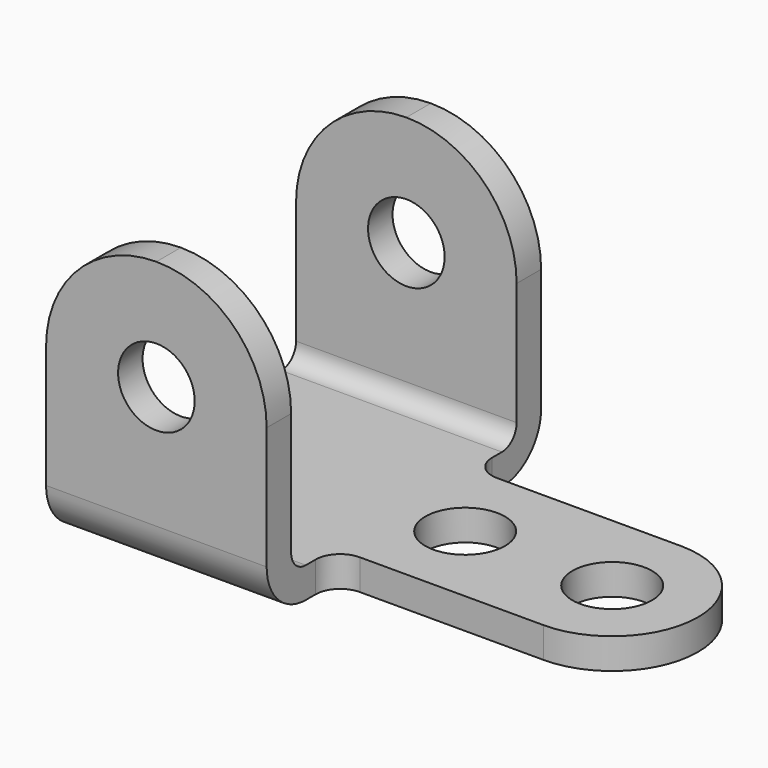
from build123d import *

# Parameters (mm, degrees)
F1_DEPTH = 57.15
F2_R     = 10.3251
F3_DEPTH = 7.9375
F4_R     = 9.92251
F5_DEPTH = 88.9


with BuildPart() as f1:
    # F0 (on Right) → F1 (new body)
    with BuildSketch(Plane.YZ):
        with BuildLine():
            Line((-31.75, 0), (0, 0))
            Line((0, 0), (31.75, 0))
            ThreePointArc((31.75, 0), (40.730256, 3.719744), (44.45, 12.7))
            Line((44.45, 12.7), (44.45, 73.025))
            Line((44.45, 73.025), (36.5125, 73.025))
            Line((36.5125, 73.025), (36.5125, 12.7))
            ThreePointArc((36.5125, 12.7), (35.117596, 9.332404), (31.75, 7.9375))
            Line((31.75, 7.9375), (-31.75, 7.9375))
            ThreePointArc((-31.75, 7.9375), (-35.117596, 9.332404), (-36.5125, 12.7))
            Line((-36.5125, 12.7), (-36.5125, 73.025))
            Line((-36.5125, 73.025), (-44.45, 73.025))
            Line((-44.45, 73.025), (-44.45, 12.7))
            ThreePointArc((-44.45, 12.7), (-40.730256, 3.719744), (-31.75, 0))
        make_face()
    extrude(amount=F1_DEPTH)

    # F2 (on face) → F3 (join)
    with BuildSketch(Plane.XY.offset(7.9375)):
        with BuildLine():
            ThreePointArc((63.5, 22.225), (59.009872, 24.084872), (57.15, 28.575))
            Line((57.15, 28.575), (57.15, -28.575))
            ThreePointArc((57.15, -28.575), (59.009872, -24.084872), (63.5, -22.225))
            Line((63.5, -22.225), (111.125, -22.225))
            ThreePointArc((111.125, -22.225), (133.35, 0), (111.125, 22.225))
            Line((111.125, 22.225), (63.5, 22.225))
        make_face()
        with Locations((73.025, 0)):
            Circle(F2_R, mode=Mode.SUBTRACT)
        with Locations((111.125, 0)):
            Circle(F2_R, mode=Mode.SUBTRACT)
    extrude(amount=-F3_DEPTH)

    # F4 (on face) → F5 (cut)
    with BuildSketch(Plane.XZ.offset(44.45)):
        with Locations((28.575, 44.45)):
            Circle(F4_R)
        with BuildLine():
            Line((28.575, 73.025), (0, 73.025))
            Line((0, 73.025), (0, 44.45))
            ThreePointArc((0, 44.45), (8.369424, 64.655576), (28.575, 73.025))
        make_face()
        with BuildLine():
            Line((57.15, 73.025), (28.575, 73.025))
            ThreePointArc((28.575, 73.025), (48.780576, 64.655576), (57.15, 44.45))
            Line((57.15, 44.45), (57.15, 73.025))
        make_face()
    extrude(amount=-F5_DEPTH, mode=Mode.SUBTRACT)


solid = f1.part
